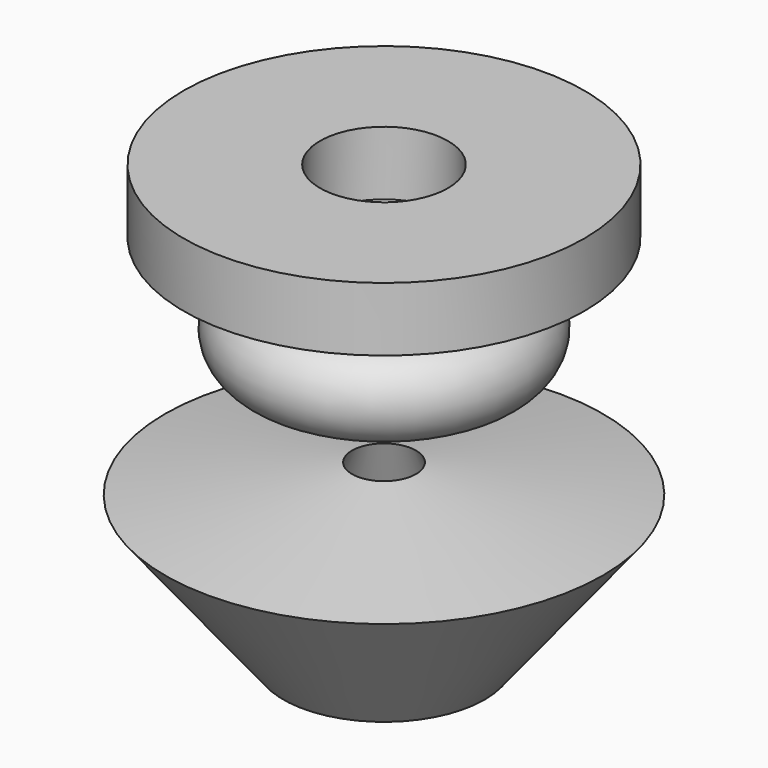
from build123d import *

# Parameters (mm, degrees)
F0_W = 19.250525
F0_H = 9.023681
F0_R = 6.015792


with BuildPart() as f1:
    # F0 (on Front) → F1 (revolve)
    with BuildSketch(Plane.XZ):
        with Locations((18.648936, 63.466578)):
            Rectangle(F0_W, F0_H)
        with Locations((14.437883, 47.825526)):
            Circle(F0_R)
        Polygon((14.223477, 6.123773), (30.894922, 26.96307), (4.511839, 30.981317), align=None)
    revolve(axis=Axis((0, 0, 37.598684), (0, 0, -1)))


solid = f1.part
